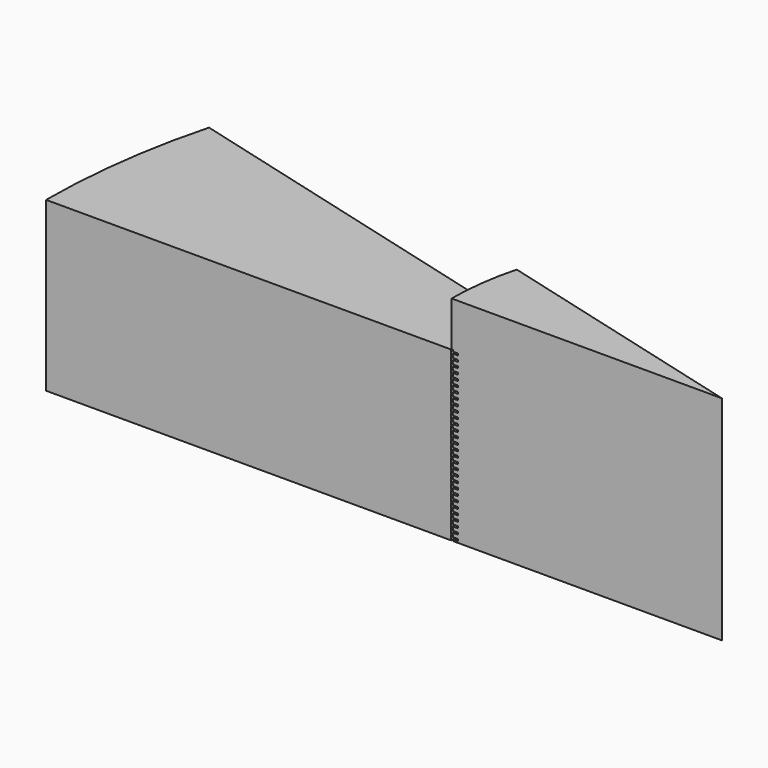
from build123d import *

# Parameters (mm, degrees)
F1_ANGLE = 15
F3_ANGLE = 12.85


with BuildPart() as f1:
    # F0 (on Front) → F1 (revolve)
    with BuildSketch(Plane.XZ):
        Polygon((-150, 0), (0, 0), (0, 47.3), (-60, 47.3), (-60, 37.3), (-150, 37.3), align=None)
    revolve(axis=Axis((0, 0, 23.65), (0, 0, -1)), revolution_arc=F1_ANGLE)

    # F2 (on face) → F3 (revolve, cut)
    with BuildSketch(Plane.XZ):
        Polygon((-59.7, 37.4), (-60.1, 37.4), (-60.1, 36.225), (-59.7, 36.225), (-59.7, 36.6125), (-58.6, 36.6125), (-58.6, 37.0125), (-59.7, 37.0125), align=None)
        Polygon((-58.6, 35.7625), (-59.7, 35.7625), (-59.7, 36.15), (-60.1, 36.15), (-60.1, 34.975), (-59.7, 34.975), (-59.7, 35.3625), (-58.6, 35.3625), align=None)
        Polygon((-58.6, 34.5125), (-59.7, 34.5125), (-59.7, 34.9), (-60.1, 34.9), (-60.1, 33.725), (-59.7, 33.725), (-59.7, 34.1125), (-58.6, 34.1125), align=None)
        Polygon((-58.6, 33.2625), (-59.7, 33.2625), (-59.7, 33.65), (-60.1, 33.65), (-60.1, 32.475), (-59.7, 32.475), (-59.7, 32.8625), (-58.6, 32.8625), align=None)
        Polygon((-58.6, 32.0125), (-59.7, 32.0125), (-59.7, 32.4), (-60.1, 32.4), (-60.1, 31.225), (-59.7, 31.225), (-59.7, 31.6125), (-58.6, 31.6125), align=None)
        Polygon((-58.6, 30.7625), (-59.7, 30.7625), (-59.7, 31.15), (-60.1, 31.15), (-60.1, 29.975), (-59.7, 29.975), (-59.7, 30.3625), (-58.6, 30.3625), align=None)
        Polygon((-58.6, 29.5125), (-59.7, 29.5125), (-59.7, 29.9), (-60.1, 29.9), (-60.1, 28.725), (-59.7, 28.725), (-59.7, 29.1125), (-58.6, 29.1125), align=None)
        Polygon((-58.6, 28.2625), (-59.7, 28.2625), (-59.7, 28.65), (-60.1, 28.65), (-60.1, 27.475), (-59.7, 27.475), (-59.7, 27.8625), (-58.6, 27.8625), align=None)
        Polygon((-58.6, 27.0125), (-59.7, 27.0125), (-59.7, 27.4), (-60.1, 27.4), (-60.1, 26.225), (-59.7, 26.225), (-59.7, 26.6125), (-58.6, 26.6125), align=None)
        Polygon((-58.6, 25.7625), (-59.7, 25.7625), (-59.7, 26.15), (-60.1, 26.15), (-60.1, 24.975), (-59.7, 24.975), (-59.7, 25.3625), (-58.6, 25.3625), align=None)
        Polygon((-58.6, 24.5125), (-59.7, 24.5125), (-59.7, 24.9), (-60.1, 24.9), (-60.1, 23.725), (-59.7, 23.725), (-59.7, 24.1125), (-58.6, 24.1125), align=None)
        Polygon((-58.6, 23.2625), (-59.7, 23.2625), (-59.7, 23.65), (-60.1, 23.65), (-60.1, 22.475), (-59.7, 22.475), (-59.7, 22.8625), (-58.6, 22.8625), align=None)
        Polygon((-58.6, 22.0125), (-59.7, 22.0125), (-59.7, 22.4), (-60.1, 22.4), (-60.1, 21.225), (-59.7, 21.225), (-59.7, 21.6125), (-58.6, 21.6125), align=None)
        Polygon((-58.6, 20.7625), (-59.7, 20.7625), (-59.7, 21.15), (-60.1, 21.15), (-60.1, 19.975), (-59.7, 19.975), (-59.7, 20.3625), (-58.6, 20.3625), align=None)
        Polygon((-58.6, 19.5125), (-59.7, 19.5125), (-59.7, 19.9), (-60.1, 19.9), (-60.1, 18.725), (-59.7, 18.725), (-59.7, 19.1125), (-58.6, 19.1125), align=None)
        Polygon((-58.6, 18.2625), (-59.7, 18.2625), (-59.7, 18.65), (-60.1, 18.65), (-60.1, 17.475), (-59.7, 17.475), (-59.7, 17.8625), (-58.6, 17.8625), align=None)
        Polygon((-58.6, 17.0125), (-59.7, 17.0125), (-59.7, 17.4), (-60.1, 17.4), (-60.1, 16.225), (-59.7, 16.225), (-59.7, 16.6125), (-58.6, 16.6125), align=None)
        Polygon((-58.6, 15.7625), (-59.7, 15.7625), (-59.7, 16.15), (-60.1, 16.15), (-60.1, 14.975), (-59.7, 14.975), (-59.7, 15.3625), (-58.6, 15.3625), align=None)
        Polygon((-58.6, 14.5125), (-59.7, 14.5125), (-59.7, 14.9), (-60.1, 14.9), (-60.1, 13.725), (-59.7, 13.725), (-59.7, 14.1125), (-58.6, 14.1125), align=None)
        Polygon((-58.6, 13.2625), (-59.7, 13.2625), (-59.7, 13.65), (-60.1, 13.65), (-60.1, 12.475), (-59.7, 12.475), (-59.7, 12.8625), (-58.6, 12.8625), align=None)
        Polygon((-58.6, 12.0125), (-59.7, 12.0125), (-59.7, 12.4), (-60.1, 12.4), (-60.1, 11.225), (-59.7, 11.225), (-59.7, 11.6125), (-58.6, 11.6125), align=None)
        Polygon((-58.6, 10.7625), (-59.7, 10.7625), (-59.7, 11.15), (-60.1, 11.15), (-60.1, 9.975), (-59.7, 9.975), (-59.7, 10.3625), (-58.6, 10.3625), align=None)
        Polygon((-58.6, 9.5125), (-59.7, 9.5125), (-59.7, 9.9), (-60.1, 9.9), (-60.1, 8.725), (-59.7, 8.725), (-59.7, 9.1125), (-58.6, 9.1125), align=None)
        Polygon((-58.6, 8.2625), (-59.7, 8.2625), (-59.7, 8.65), (-60.1, 8.65), (-60.1, 7.475), (-59.7, 7.475), (-59.7, 7.8625), (-58.6, 7.8625), align=None)
        Polygon((-58.6, 7.0125), (-59.7, 7.0125), (-59.7, 7.4), (-60.1, 7.4), (-60.1, 6.225), (-59.7, 6.225), (-59.7, 6.6125), (-58.6, 6.6125), align=None)
        Polygon((-58.6, 5.7625), (-59.7, 5.7625), (-59.7, 6.15), (-60.1, 6.15), (-60.1, 4.975), (-59.7, 4.975), (-59.7, 5.3625), (-58.6, 5.3625), align=None)
        Polygon((-58.6, 4.5125), (-59.7, 4.5125), (-59.7, 4.9), (-60.1, 4.9), (-60.1, 3.725), (-59.7, 3.725), (-59.7, 4.1125), (-58.6, 4.1125), align=None)
        Polygon((-58.6, 3.2625), (-59.7, 3.2625), (-59.7, 3.65), (-60.1, 3.65), (-60.1, 2.475), (-59.7, 2.475), (-59.7, 2.8625), (-58.6, 2.8625), align=None)
        Polygon((-58.6, 2.0125), (-59.7, 2.0125), (-59.7, 2.4), (-60.1, 2.4), (-60.1, 1.225), (-59.7, 1.225), (-59.7, 1.6125), (-58.6, 1.6125), align=None)
        Polygon((-58.6, 0.7625), (-59.7, 0.7625), (-59.7, 1.15), (-60.1, 1.15), (-60.1, -0.025), (-59.7, -0.025), (-59.7, 0.3625), (-58.6, 0.3625), align=None)
    revolve(axis=Axis((0, 0, 23.65), (0, 0, -1)), revolution_arc=F3_ANGLE, mode=Mode.SUBTRACT)


solid = f1.part
